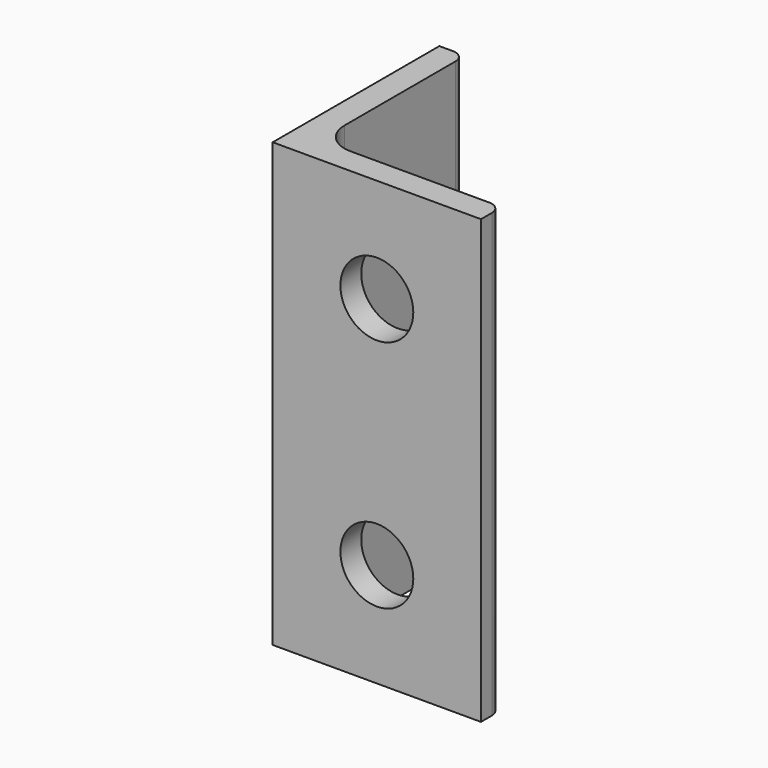
from build123d import *

# Parameters (mm, degrees)
F1_DEPTH = 85
F2_R     = 7
F3_DEPTH = 40.001


with BuildPart() as f1:
    # F0 (on Top) → F1 (new body)
    with BuildSketch(Plane.XY):
        with BuildLine():
            Line((0, 40), (0, 0))
            Line((0, 0), (40, 0))
            Line((40, 0), (40, 2.6))
            ThreePointArc((40, 2.6), (39.297056, 4.297056), (37.6, 5))
            Line((37.6, 5), (11, 5))
            ThreePointArc((11, 5), (6.757359, 6.757359), (5, 11))
            Line((5, 11), (5, 37.6))
            ThreePointArc((5, 37.6), (4.297056, 39.297056), (2.6, 40))
            Line((2.6, 40), (0, 40))
        make_face()
    extrude(amount=F1_DEPTH)

    # F2 (on face) → F3 (cut, through all)
    with BuildSketch(Plane.XZ):
        with Locations((20, 65)):
            Circle(F2_R)
        with Locations((20, 20)):
            Circle(F2_R)
    extrude(amount=-F3_DEPTH, mode=Mode.SUBTRACT)


solid = f1.part
